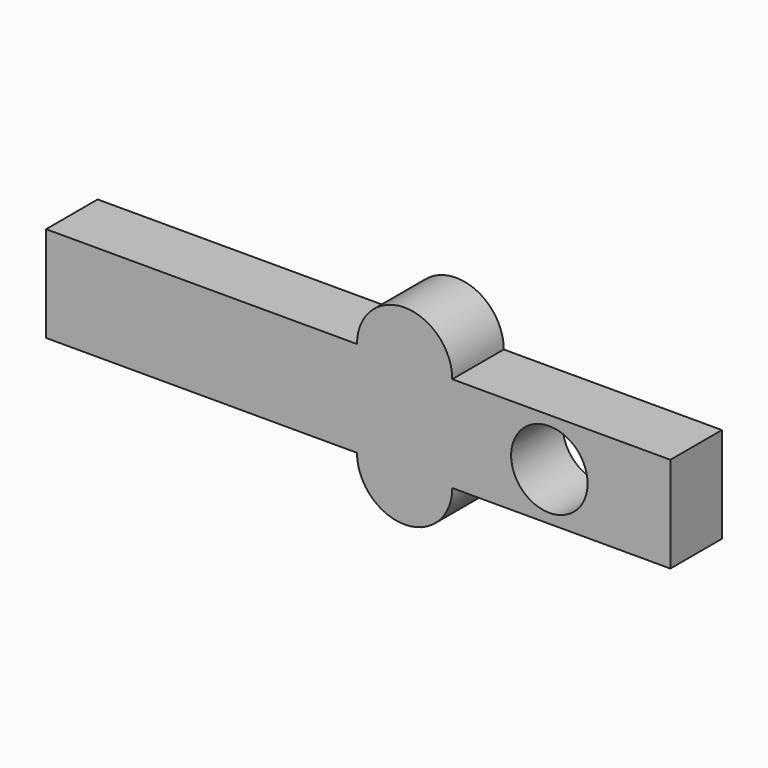
from build123d import *

# Parameters (mm, degrees)
F0_W     = 120.666542
F0_H     = 37.173942
F0_W_2   = 84.657148
F1_DEPTH = 25
F2_R     = 14.832211
F3_DEPTH = 130


with BuildPart() as f1:
    # F0 (on Front) → F1 (new body)
    with BuildSketch(Plane.XZ):
        Rectangle(F0_W, F0_H)
        with BuildLine():
            Line((60.333271, 18.586971), (60.333271, -18.586971))
            ThreePointArc((60.333271, -18.586971), (78.826321, -37.080022), (97.319372, -18.586971))
            Line((97.319372, -18.586971), (97.319372, 18.586971))
            ThreePointArc((97.319372, 18.586971), (78.826321, 37.080022), (60.333271, 18.586971))
        make_face()
        with Locations((139.647946, 0)):
            Rectangle(F0_W_2, F0_H)
    extrude(amount=F1_DEPTH)

    # F2 (on face) → F3 (cut, symmetric)
    with BuildSketch(Plane.XZ.offset(25)):
        with Locations((134.998873, 0)):
            Circle(F2_R)
    extrude(amount=F3_DEPTH, both=True, mode=Mode.SUBTRACT)


solid = f1.part
